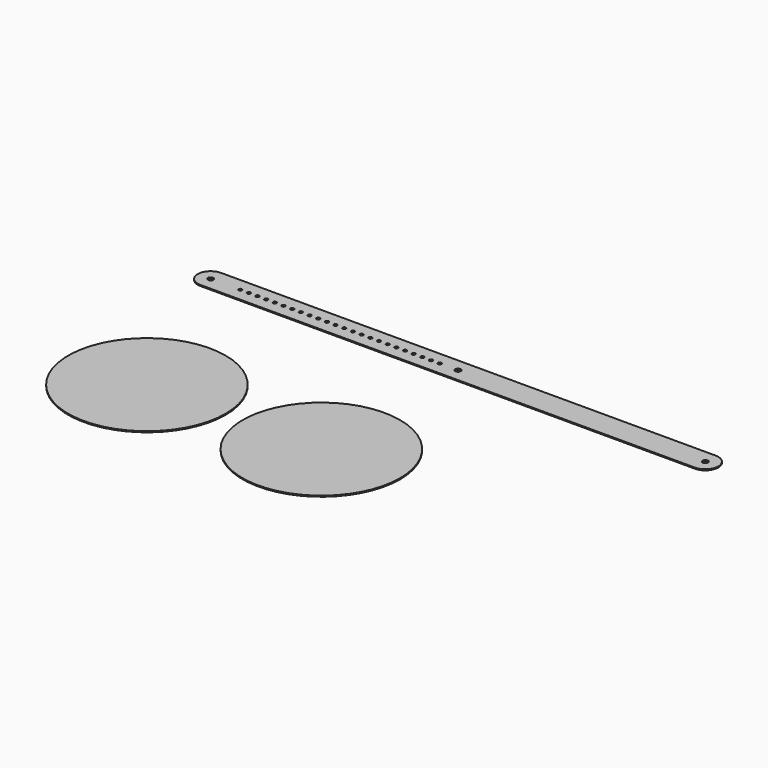
from build123d import *

# Parameters (mm, degrees)
F0_R     = 3.96875
F0_R_2   = 2.5019
F0_R_3   = 115.25
F1_DEPTH = 1.524


with BuildPart() as f1:
    # F0 (on Top) → F1 (new body)
    with BuildSketch(Plane.XY):
        with BuildLine():
            Line((743, 0), (19, 0))
            ThreePointArc((19, 0), (0, -19), (19, -38))
            Line((19, -38), (743, -38))
            ThreePointArc((743, -38), (762, -19), (743, 0))
        make_face()
        with Locations((19, -19)):
            Circle(F0_R, mode=Mode.SUBTRACT)
        with Locations((62.18, -19)):
            Circle(F0_R_2, mode=Mode.SUBTRACT)
        with Locations((74.88, -19)):
            Circle(F0_R_2, mode=Mode.SUBTRACT)
        with Locations((87.58, -19)):
            Circle(F0_R_2, mode=Mode.SUBTRACT)
        with Locations((100.28, -19)):
            Circle(F0_R_2, mode=Mode.SUBTRACT)
        with Locations((112.98, -19)):
            Circle(F0_R_2, mode=Mode.SUBTRACT)
        with Locations((125.68, -19)):
            Circle(F0_R_2, mode=Mode.SUBTRACT)
        with Locations((138.38, -19)):
            Circle(F0_R_2, mode=Mode.SUBTRACT)
        with Locations((151.08, -19)):
            Circle(F0_R_2, mode=Mode.SUBTRACT)
        with Locations((163.78, -19)):
            Circle(F0_R_2, mode=Mode.SUBTRACT)
        with Locations((176.48, -19)):
            Circle(F0_R_2, mode=Mode.SUBTRACT)
        with Locations((189.18, -19)):
            Circle(F0_R_2, mode=Mode.SUBTRACT)
        with Locations((201.88, -19)):
            Circle(F0_R_2, mode=Mode.SUBTRACT)
        with Locations((214.58, -19)):
            Circle(F0_R_2, mode=Mode.SUBTRACT)
        with Locations((227.28, -19)):
            Circle(F0_R_2, mode=Mode.SUBTRACT)
        with Locations((239.98, -19)):
            Circle(F0_R_2, mode=Mode.SUBTRACT)
        with Locations((252.68, -19)):
            Circle(F0_R_2, mode=Mode.SUBTRACT)
        with Locations((265.38, -19)):
            Circle(F0_R_2, mode=Mode.SUBTRACT)
        with Locations((278.08, -19)):
            Circle(F0_R_2, mode=Mode.SUBTRACT)
        with Locations((290.78, -19)):
            Circle(F0_R_2, mode=Mode.SUBTRACT)
        with Locations((303.48, -19)):
            Circle(F0_R_2, mode=Mode.SUBTRACT)
        with Locations((316.18, -19)):
            Circle(F0_R_2, mode=Mode.SUBTRACT)
        with Locations((328.88, -19)):
            Circle(F0_R_2, mode=Mode.SUBTRACT)
        with Locations((341.58, -19)):
            Circle(F0_R_2, mode=Mode.SUBTRACT)
        with Locations((354.28, -19)):
            Circle(F0_R_2, mode=Mode.SUBTRACT)
        with Locations((381, -19)):
            Circle(F0_R, mode=Mode.SUBTRACT)
        with Locations((743, -19)):
            Circle(F0_R, mode=Mode.SUBTRACT)
        with Locations((381, -269)):
            Circle(F0_R_3)
        with Locations((125.68, -269)):
            Circle(F0_R_3)
    extrude(amount=F1_DEPTH)


solid = f1.part
